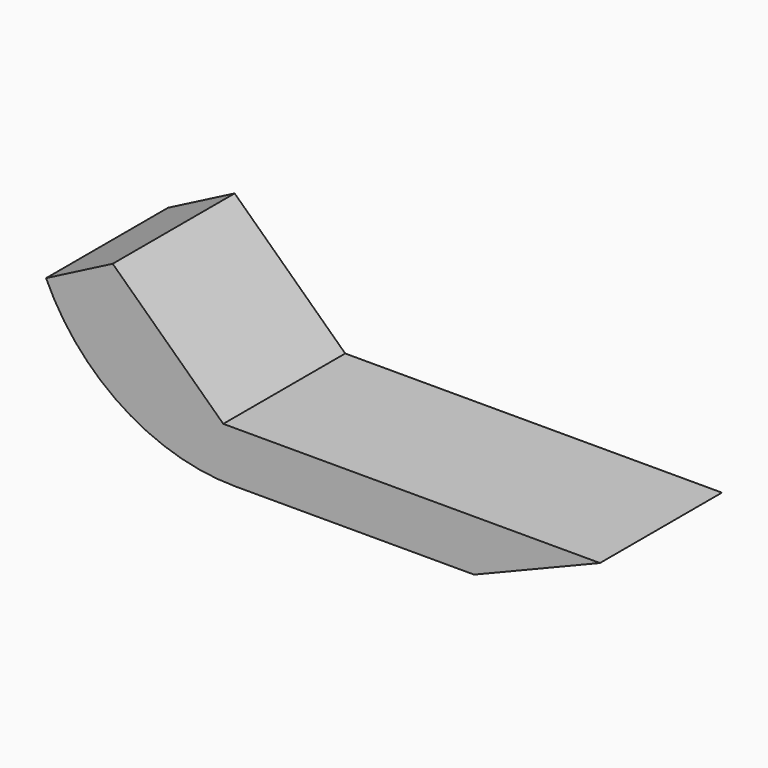
from build123d import *

# Parameters (mm, degrees)
F1_DEPTH = 127


with BuildPart() as f1:
    # F0 (on Front) → F1 (new body, symmetric)
    with BuildSketch(Plane.XZ):
        with BuildLine():
            Line((-398.998857, 205.741569), (-510.038793, 148.539171))
            ThreePointArc((-510.038793, 148.539171), (-382.313917, 0.672401), (-194.86478, -54.473285))
            Line((-194.86478, -54.473285), (203.308806, -54.473285))
            Line((203.308806, -54.473285), (413.05095, 30.76951))
            Line((413.05095, 30.76951), (-214.756745, 30.76951))
            Line((-214.756745, 30.76951), (-398.998857, 205.741569))
        make_face()
    extrude(amount=F1_DEPTH, both=True)


solid = f1.part
